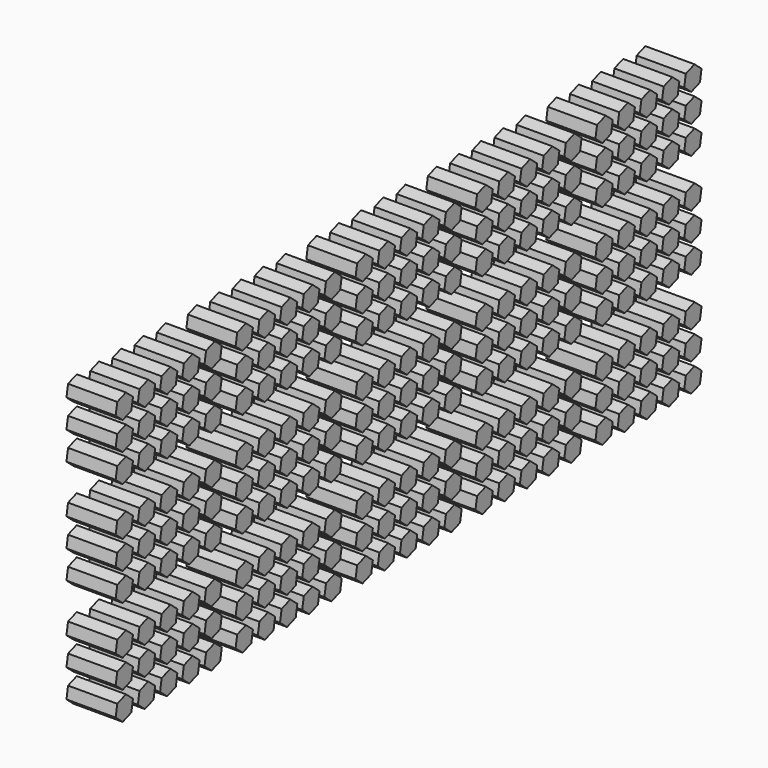
from build123d import *

# Parameters (mm, degrees)
F1_DEPTH = 381


with BuildPart() as f1:
    # F0 (on Right) → F1 (new body)
    with BuildSketch(Plane.YZ):
        Polygon((-15.560611, -87.850091), (68.300105, -57.40093), (83.860716, 30.449161), (15.560611, 87.850091), (-68.300105, 57.40093), (-83.860716, -30.449161), align=None)
        Polygon((-15.560611, 130.589909), (68.300105, 161.03907), (83.860716, 248.889161), (15.560611, 306.290091), (-68.300105, 275.84093), (-83.860716, 187.990839), align=None)
        Polygon((-15.560611, 349.029909), (68.300105, 379.47907), (83.860716, 467.329161), (15.560611, 524.730091), (-68.300105, 494.28093), (-83.860716, 406.430839), align=None)
        Polygon((199.323389, -87.850091), (283.184105, -57.40093), (298.744716, 30.449161), (230.444611, 87.850091), (146.583895, 57.40093), (131.023284, -30.449161), align=None)
        Polygon((199.323389, 130.589909), (283.184105, 161.03907), (298.744716, 248.889161), (230.444611, 306.290091), (146.583895, 275.84093), (131.023284, 187.990839), align=None)
        Polygon((199.323389, 349.029909), (283.184105, 379.47907), (298.744716, 467.329161), (230.444611, 524.730091), (146.583895, 494.28093), (131.023284, 406.430839), align=None)
        Polygon((414.207389, -87.850091), (498.068105, -57.40093), (513.628716, 30.449161), (445.328611, 87.850091), (361.467895, 57.40093), (345.907284, -30.449161), align=None)
        Polygon((414.207389, 130.589909), (498.068105, 161.03907), (513.628716, 248.889161), (445.328611, 306.290091), (361.467895, 275.84093), (345.907284, 187.990839), align=None)
        Polygon((414.207389, 349.029909), (498.068105, 379.47907), (513.628716, 467.329161), (445.328611, 524.730091), (361.467895, 494.28093), (345.907284, 406.430839), align=None)
        Polygon((629.091389, -87.850091), (712.952105, -57.40093), (728.512716, 30.449161), (660.212611, 87.850091), (576.351895, 57.40093), (560.791284, -30.449161), align=None)
        Polygon((629.091389, 130.589909), (712.952105, 161.03907), (728.512716, 248.889161), (660.212611, 306.290091), (576.351895, 275.84093), (560.791284, 187.990839), align=None)
        Polygon((629.091389, 349.029909), (712.952105, 379.47907), (728.512716, 467.329161), (660.212611, 524.730091), (576.351895, 494.28093), (560.791284, 406.430839), align=None)
        Polygon((843.975389, -87.850091), (927.836105, -57.40093), (943.396716, 30.449161), (875.096611, 87.850091), (791.235895, 57.40093), (775.675284, -30.449161), align=None)
        Polygon((843.975389, 130.589909), (927.836105, 161.03907), (943.396716, 248.889161), (875.096611, 306.290091), (791.235895, 275.84093), (775.675284, 187.990839), align=None)
        Polygon((843.975389, 349.029909), (927.836105, 379.47907), (943.396716, 467.329161), (875.096611, 524.730091), (791.235895, 494.28093), (775.675284, 406.430839), align=None)
        Polygon((927.836105, 752.85907), (943.396716, 840.709161), (875.096611, 898.110091), (791.235895, 867.66093), (775.675284, 779.810839), (843.975389, 722.409909), align=None)
        Polygon((298.744716, 840.709161), (230.444611, 898.110091), (146.583895, 867.66093), (131.023284, 779.810839), (199.323389, 722.409909), (283.184105, 752.85907), align=None)
        Polygon((345.907284, 1216.690839), (414.207389, 1159.289909), (498.068105, 1189.73907), (513.628716, 1277.589161), (445.328611, 1334.990091), (361.467895, 1304.54093), align=None)
        Polygon((83.860716, 1277.589161), (15.560611, 1334.990091), (-68.300105, 1304.54093), (-83.860716, 1216.690839), (-15.560611, 1159.289909), (68.300105, 1189.73907), align=None)
        Polygon((660.212611, 898.110091), (576.351895, 867.66093), (560.791284, 779.810839), (629.091389, 722.409909), (712.952105, 752.85907), (728.512716, 840.709161), align=None)
        Polygon((345.907284, 998.250839), (414.207389, 940.849909), (498.068105, 971.29907), (513.628716, 1059.149161), (445.328611, 1116.550091), (361.467895, 1086.10093), align=None)
        Polygon((361.467895, 867.66093), (345.907284, 779.810839), (414.207389, 722.409909), (498.068105, 752.85907), (513.628716, 840.709161), (445.328611, 898.110091), align=None)
        Polygon((131.023284, 998.250839), (199.323389, 940.849909), (283.184105, 971.29907), (298.744716, 1059.149161), (230.444611, 1116.550091), (146.583895, 1086.10093), align=None)
        Polygon((791.235895, 1086.10093), (775.675284, 998.250839), (843.975389, 940.849909), (927.836105, 971.29907), (943.396716, 1059.149161), (875.096611, 1116.550091), align=None)
        Polygon((560.791284, 1216.690839), (629.091389, 1159.289909), (712.952105, 1189.73907), (728.512716, 1277.589161), (660.212611, 1334.990091), (576.351895, 1304.54093), align=None)
        Polygon((875.096611, 1334.990091), (791.235895, 1304.54093), (775.675284, 1216.690839), (843.975389, 1159.289909), (927.836105, 1189.73907), (943.396716, 1277.589161), align=None)
        Polygon((68.300105, 971.29907), (83.860716, 1059.149161), (15.560611, 1116.550091), (-68.300105, 1086.10093), (-83.860716, 998.250839), (-15.560611, 940.849909), align=None)
        Polygon((-83.860716, 779.810839), (-15.560611, 722.409909), (68.300105, 752.85907), (83.860716, 840.709161), (15.560611, 898.110091), (-68.300105, 867.66093), align=None)
        Polygon((230.444611, 1334.990091), (146.583895, 1304.54093), (131.023284, 1216.690839), (199.323389, 1159.289909), (283.184105, 1189.73907), (298.744716, 1277.589161), align=None)
        Polygon((560.791284, 998.250839), (629.091389, 940.849909), (712.952105, 971.29907), (728.512716, 1059.149161), (660.212611, 1116.550091), (576.351895, 1086.10093), align=None)
        Polygon((927.836105, 1563.11907), (943.396716, 1650.969161), (875.096611, 1708.370091), (791.235895, 1677.92093), (775.675284, 1590.070839), (843.975389, 1532.669909), align=None)
        Polygon((298.744716, 1650.969161), (230.444611, 1708.370091), (146.583895, 1677.92093), (131.023284, 1590.070839), (199.323389, 1532.669909), (283.184105, 1563.11907), align=None)
        Polygon((345.907284, 2026.950839), (414.207389, 1969.549909), (498.068105, 1999.99907), (513.628716, 2087.849161), (445.328611, 2145.250091), (361.467895, 2114.80093), align=None)
        Polygon((83.860716, 2087.849161), (15.560611, 2145.250091), (-68.300105, 2114.80093), (-83.860716, 2026.950839), (-15.560611, 1969.549909), (68.300105, 1999.99907), align=None)
        Polygon((660.212611, 1708.370091), (576.351895, 1677.92093), (560.791284, 1590.070839), (629.091389, 1532.669909), (712.952105, 1563.11907), (728.512716, 1650.969161), align=None)
        Polygon((345.907284, 1808.510839), (414.207389, 1751.109909), (498.068105, 1781.55907), (513.628716, 1869.409161), (445.328611, 1926.810091), (361.467895, 1896.36093), align=None)
        Polygon((361.467895, 1677.92093), (345.907284, 1590.070839), (414.207389, 1532.669909), (498.068105, 1563.11907), (513.628716, 1650.969161), (445.328611, 1708.370091), align=None)
        Polygon((131.023284, 1808.510839), (199.323389, 1751.109909), (283.184105, 1781.55907), (298.744716, 1869.409161), (230.444611, 1926.810091), (146.583895, 1896.36093), align=None)
        Polygon((791.235895, 1896.36093), (775.675284, 1808.510839), (843.975389, 1751.109909), (927.836105, 1781.55907), (943.396716, 1869.409161), (875.096611, 1926.810091), align=None)
        Polygon((560.791284, 2026.950839), (629.091389, 1969.549909), (712.952105, 1999.99907), (728.512716, 2087.849161), (660.212611, 2145.250091), (576.351895, 2114.80093), align=None)
        Polygon((875.096611, 2145.250091), (791.235895, 2114.80093), (775.675284, 2026.950839), (843.975389, 1969.549909), (927.836105, 1999.99907), (943.396716, 2087.849161), align=None)
        Polygon((68.300105, 1781.55907), (83.860716, 1869.409161), (15.560611, 1926.810091), (-68.300105, 1896.36093), (-83.860716, 1808.510839), (-15.560611, 1751.109909), align=None)
        Polygon((-83.860716, 1590.070839), (-15.560611, 1532.669909), (68.300105, 1563.11907), (83.860716, 1650.969161), (15.560611, 1708.370091), (-68.300105, 1677.92093), align=None)
        Polygon((230.444611, 2145.250091), (146.583895, 2114.80093), (131.023284, 2026.950839), (199.323389, 1969.549909), (283.184105, 1999.99907), (298.744716, 2087.849161), align=None)
        Polygon((560.791284, 1808.510839), (629.091389, 1751.109909), (712.952105, 1781.55907), (728.512716, 1869.409161), (660.212611, 1926.810091), (576.351895, 1896.36093), align=None)
        Polygon((2088.616105, -57.40093), (2104.176716, 30.449161), (2035.876611, 87.850091), (1952.015895, 57.40093), (1936.455284, -30.449161), (2004.755389, -87.850091), align=None)
        Polygon((1459.524716, 30.449161), (1391.224611, 87.850091), (1307.363895, 57.40093), (1291.803284, -30.449161), (1360.103389, -87.850091), (1443.964105, -57.40093), align=None)
        Polygon((1506.687284, 406.430839), (1574.987389, 349.029909), (1658.848105, 379.47907), (1674.408716, 467.329161), (1606.108611, 524.730091), (1522.247895, 494.28093), align=None)
        Polygon((1244.640716, 467.329161), (1176.340611, 524.730091), (1092.479895, 494.28093), (1076.919284, 406.430839), (1145.219389, 349.029909), (1229.080105, 379.47907), align=None)
        Polygon((1820.992611, 87.850091), (1737.131895, 57.40093), (1721.571284, -30.449161), (1789.871389, -87.850091), (1873.732105, -57.40093), (1889.292716, 30.449161), align=None)
        Polygon((1506.687284, 187.990839), (1574.987389, 130.589909), (1658.848105, 161.03907), (1674.408716, 248.889161), (1606.108611, 306.290091), (1522.247895, 275.84093), align=None)
        Polygon((1522.247895, 57.40093), (1506.687284, -30.449161), (1574.987389, -87.850091), (1658.848105, -57.40093), (1674.408716, 30.449161), (1606.108611, 87.850091), align=None)
        Polygon((1291.803284, 187.990839), (1360.103389, 130.589909), (1443.964105, 161.03907), (1459.524716, 248.889161), (1391.224611, 306.290091), (1307.363895, 275.84093), align=None)
        Polygon((1952.015895, 275.84093), (1936.455284, 187.990839), (2004.755389, 130.589909), (2088.616105, 161.03907), (2104.176716, 248.889161), (2035.876611, 306.290091), align=None)
        Polygon((1721.571284, 406.430839), (1789.871389, 349.029909), (1873.732105, 379.47907), (1889.292716, 467.329161), (1820.992611, 524.730091), (1737.131895, 494.28093), align=None)
        Polygon((2035.876611, 524.730091), (1952.015895, 494.28093), (1936.455284, 406.430839), (2004.755389, 349.029909), (2088.616105, 379.47907), (2104.176716, 467.329161), align=None)
        Polygon((1229.080105, 161.03907), (1244.640716, 248.889161), (1176.340611, 306.290091), (1092.479895, 275.84093), (1076.919284, 187.990839), (1145.219389, 130.589909), align=None)
        Polygon((1076.919284, -30.449161), (1145.219389, -87.850091), (1229.080105, -57.40093), (1244.640716, 30.449161), (1176.340611, 87.850091), (1092.479895, 57.40093), align=None)
        Polygon((1391.224611, 524.730091), (1307.363895, 494.28093), (1291.803284, 406.430839), (1360.103389, 349.029909), (1443.964105, 379.47907), (1459.524716, 467.329161), align=None)
        Polygon((1721.571284, 187.990839), (1789.871389, 130.589909), (1873.732105, 161.03907), (1889.292716, 248.889161), (1820.992611, 306.290091), (1737.131895, 275.84093), align=None)
        Polygon((2088.616105, 752.85907), (2104.176716, 840.709161), (2035.876611, 898.110091), (1952.015895, 867.66093), (1936.455284, 779.810839), (2004.755389, 722.409909), align=None)
        Polygon((1459.524716, 840.709161), (1391.224611, 898.110091), (1307.363895, 867.66093), (1291.803284, 779.810839), (1360.103389, 722.409909), (1443.964105, 752.85907), align=None)
        Polygon((1506.687284, 1216.690839), (1574.987389, 1159.289909), (1658.848105, 1189.73907), (1674.408716, 1277.589161), (1606.108611, 1334.990091), (1522.247895, 1304.54093), align=None)
        Polygon((1244.640716, 1277.589161), (1176.340611, 1334.990091), (1092.479895, 1304.54093), (1076.919284, 1216.690839), (1145.219389, 1159.289909), (1229.080105, 1189.73907), align=None)
        Polygon((1820.992611, 898.110091), (1737.131895, 867.66093), (1721.571284, 779.810839), (1789.871389, 722.409909), (1873.732105, 752.85907), (1889.292716, 840.709161), align=None)
        Polygon((1506.687284, 998.250839), (1574.987389, 940.849909), (1658.848105, 971.29907), (1674.408716, 1059.149161), (1606.108611, 1116.550091), (1522.247895, 1086.10093), align=None)
        Polygon((1522.247895, 867.66093), (1506.687284, 779.810839), (1574.987389, 722.409909), (1658.848105, 752.85907), (1674.408716, 840.709161), (1606.108611, 898.110091), align=None)
        Polygon((1291.803284, 998.250839), (1360.103389, 940.849909), (1443.964105, 971.29907), (1459.524716, 1059.149161), (1391.224611, 1116.550091), (1307.363895, 1086.10093), align=None)
        Polygon((1952.015895, 1086.10093), (1936.455284, 998.250839), (2004.755389, 940.849909), (2088.616105, 971.29907), (2104.176716, 1059.149161), (2035.876611, 1116.550091), align=None)
        Polygon((1721.571284, 1216.690839), (1789.871389, 1159.289909), (1873.732105, 1189.73907), (1889.292716, 1277.589161), (1820.992611, 1334.990091), (1737.131895, 1304.54093), align=None)
        Polygon((2035.876611, 1334.990091), (1952.015895, 1304.54093), (1936.455284, 1216.690839), (2004.755389, 1159.289909), (2088.616105, 1189.73907), (2104.176716, 1277.589161), align=None)
        Polygon((1229.080105, 971.29907), (1244.640716, 1059.149161), (1176.340611, 1116.550091), (1092.479895, 1086.10093), (1076.919284, 998.250839), (1145.219389, 940.849909), align=None)
        Polygon((1076.919284, 779.810839), (1145.219389, 722.409909), (1229.080105, 752.85907), (1244.640716, 840.709161), (1176.340611, 898.110091), (1092.479895, 867.66093), align=None)
        Polygon((1391.224611, 1334.990091), (1307.363895, 1304.54093), (1291.803284, 1216.690839), (1360.103389, 1159.289909), (1443.964105, 1189.73907), (1459.524716, 1277.589161), align=None)
        Polygon((1721.571284, 998.250839), (1789.871389, 940.849909), (1873.732105, 971.29907), (1889.292716, 1059.149161), (1820.992611, 1116.550091), (1737.131895, 1086.10093), align=None)
        Polygon((2088.616105, 1563.11907), (2104.176716, 1650.969161), (2035.876611, 1708.370091), (1952.015895, 1677.92093), (1936.455284, 1590.070839), (2004.755389, 1532.669909), align=None)
        Polygon((1459.524716, 1650.969161), (1391.224611, 1708.370091), (1307.363895, 1677.92093), (1291.803284, 1590.070839), (1360.103389, 1532.669909), (1443.964105, 1563.11907), align=None)
        Polygon((1506.687284, 2026.950839), (1574.987389, 1969.549909), (1658.848105, 1999.99907), (1674.408716, 2087.849161), (1606.108611, 2145.250091), (1522.247895, 2114.80093), align=None)
        Polygon((1244.640716, 2087.849161), (1176.340611, 2145.250091), (1092.479895, 2114.80093), (1076.919284, 2026.950839), (1145.219389, 1969.549909), (1229.080105, 1999.99907), align=None)
        Polygon((1820.992611, 1708.370091), (1737.131895, 1677.92093), (1721.571284, 1590.070839), (1789.871389, 1532.669909), (1873.732105, 1563.11907), (1889.292716, 1650.969161), align=None)
        Polygon((1506.687284, 1808.510839), (1574.987389, 1751.109909), (1658.848105, 1781.55907), (1674.408716, 1869.409161), (1606.108611, 1926.810091), (1522.247895, 1896.36093), align=None)
        Polygon((1522.247895, 1677.92093), (1506.687284, 1590.070839), (1574.987389, 1532.669909), (1658.848105, 1563.11907), (1674.408716, 1650.969161), (1606.108611, 1708.370091), align=None)
        Polygon((1291.803284, 1808.510839), (1360.103389, 1751.109909), (1443.964105, 1781.55907), (1459.524716, 1869.409161), (1391.224611, 1926.810091), (1307.363895, 1896.36093), align=None)
        Polygon((1952.015895, 1896.36093), (1936.455284, 1808.510839), (2004.755389, 1751.109909), (2088.616105, 1781.55907), (2104.176716, 1869.409161), (2035.876611, 1926.810091), align=None)
        Polygon((1721.571284, 2026.950839), (1789.871389, 1969.549909), (1873.732105, 1999.99907), (1889.292716, 2087.849161), (1820.992611, 2145.250091), (1737.131895, 2114.80093), align=None)
        Polygon((2035.876611, 2145.250091), (1952.015895, 2114.80093), (1936.455284, 2026.950839), (2004.755389, 1969.549909), (2088.616105, 1999.99907), (2104.176716, 2087.849161), align=None)
        Polygon((1229.080105, 1781.55907), (1244.640716, 1869.409161), (1176.340611, 1926.810091), (1092.479895, 1896.36093), (1076.919284, 1808.510839), (1145.219389, 1751.109909), align=None)
        Polygon((1076.919284, 1590.070839), (1145.219389, 1532.669909), (1229.080105, 1563.11907), (1244.640716, 1650.969161), (1176.340611, 1708.370091), (1092.479895, 1677.92093), align=None)
        Polygon((1391.224611, 2145.250091), (1307.363895, 2114.80093), (1291.803284, 2026.950839), (1360.103389, 1969.549909), (1443.964105, 1999.99907), (1459.524716, 2087.849161), align=None)
        Polygon((1721.571284, 1808.510839), (1789.871389, 1751.109909), (1873.732105, 1781.55907), (1889.292716, 1869.409161), (1820.992611, 1926.810091), (1737.131895, 1896.36093), align=None)
        Polygon((3249.396105, -57.40093), (3264.956716, 30.449161), (3196.656611, 87.850091), (3112.795895, 57.40093), (3097.235284, -30.449161), (3165.535389, -87.850091), align=None)
        Polygon((2620.304716, 30.449161), (2552.004611, 87.850091), (2468.143895, 57.40093), (2452.583284, -30.449161), (2520.883389, -87.850091), (2604.744105, -57.40093), align=None)
        Polygon((2667.467284, 406.430839), (2735.767389, 349.029909), (2819.628105, 379.47907), (2835.188716, 467.329161), (2766.888611, 524.730091), (2683.027895, 494.28093), align=None)
        Polygon((2405.420716, 467.329161), (2337.120611, 524.730091), (2253.259895, 494.28093), (2237.699284, 406.430839), (2305.999389, 349.029909), (2389.860105, 379.47907), align=None)
        Polygon((2981.772611, 87.850091), (2897.911895, 57.40093), (2882.351284, -30.449161), (2950.651389, -87.850091), (3034.512105, -57.40093), (3050.072716, 30.449161), align=None)
        Polygon((2667.467284, 187.990839), (2735.767389, 130.589909), (2819.628105, 161.03907), (2835.188716, 248.889161), (2766.888611, 306.290091), (2683.027895, 275.84093), align=None)
        Polygon((2683.027895, 57.40093), (2667.467284, -30.449161), (2735.767389, -87.850091), (2819.628105, -57.40093), (2835.188716, 30.449161), (2766.888611, 87.850091), align=None)
        Polygon((2452.583284, 187.990839), (2520.883389, 130.589909), (2604.744105, 161.03907), (2620.304716, 248.889161), (2552.004611, 306.290091), (2468.143895, 275.84093), align=None)
        Polygon((3112.795895, 275.84093), (3097.235284, 187.990839), (3165.535389, 130.589909), (3249.396105, 161.03907), (3264.956716, 248.889161), (3196.656611, 306.290091), align=None)
        Polygon((2882.351284, 406.430839), (2950.651389, 349.029909), (3034.512105, 379.47907), (3050.072716, 467.329161), (2981.772611, 524.730091), (2897.911895, 494.28093), align=None)
        Polygon((3196.656611, 524.730091), (3112.795895, 494.28093), (3097.235284, 406.430839), (3165.535389, 349.029909), (3249.396105, 379.47907), (3264.956716, 467.329161), align=None)
        Polygon((2389.860105, 161.03907), (2405.420716, 248.889161), (2337.120611, 306.290091), (2253.259895, 275.84093), (2237.699284, 187.990839), (2305.999389, 130.589909), align=None)
        Polygon((2237.699284, -30.449161), (2305.999389, -87.850091), (2389.860105, -57.40093), (2405.420716, 30.449161), (2337.120611, 87.850091), (2253.259895, 57.40093), align=None)
        Polygon((2552.004611, 524.730091), (2468.143895, 494.28093), (2452.583284, 406.430839), (2520.883389, 349.029909), (2604.744105, 379.47907), (2620.304716, 467.329161), align=None)
        Polygon((2882.351284, 187.990839), (2950.651389, 130.589909), (3034.512105, 161.03907), (3050.072716, 248.889161), (2981.772611, 306.290091), (2897.911895, 275.84093), align=None)
        Polygon((3249.396105, 752.85907), (3264.956716, 840.709161), (3196.656611, 898.110091), (3112.795895, 867.66093), (3097.235284, 779.810839), (3165.535389, 722.409909), align=None)
        Polygon((2620.304716, 840.709161), (2552.004611, 898.110091), (2468.143895, 867.66093), (2452.583284, 779.810839), (2520.883389, 722.409909), (2604.744105, 752.85907), align=None)
        Polygon((2667.467284, 1216.690839), (2735.767389, 1159.289909), (2819.628105, 1189.73907), (2835.188716, 1277.589161), (2766.888611, 1334.990091), (2683.027895, 1304.54093), align=None)
        Polygon((2405.420716, 1277.589161), (2337.120611, 1334.990091), (2253.259895, 1304.54093), (2237.699284, 1216.690839), (2305.999389, 1159.289909), (2389.860105, 1189.73907), align=None)
        Polygon((2981.772611, 898.110091), (2897.911895, 867.66093), (2882.351284, 779.810839), (2950.651389, 722.409909), (3034.512105, 752.85907), (3050.072716, 840.709161), align=None)
        Polygon((2667.467284, 998.250839), (2735.767389, 940.849909), (2819.628105, 971.29907), (2835.188716, 1059.149161), (2766.888611, 1116.550091), (2683.027895, 1086.10093), align=None)
        Polygon((2683.027895, 867.66093), (2667.467284, 779.810839), (2735.767389, 722.409909), (2819.628105, 752.85907), (2835.188716, 840.709161), (2766.888611, 898.110091), align=None)
        Polygon((2452.583284, 998.250839), (2520.883389, 940.849909), (2604.744105, 971.29907), (2620.304716, 1059.149161), (2552.004611, 1116.550091), (2468.143895, 1086.10093), align=None)
        Polygon((3112.795895, 1086.10093), (3097.235284, 998.250839), (3165.535389, 940.849909), (3249.396105, 971.29907), (3264.956716, 1059.149161), (3196.656611, 1116.550091), align=None)
        Polygon((2882.351284, 1216.690839), (2950.651389, 1159.289909), (3034.512105, 1189.73907), (3050.072716, 1277.589161), (2981.772611, 1334.990091), (2897.911895, 1304.54093), align=None)
        Polygon((3196.656611, 1334.990091), (3112.795895, 1304.54093), (3097.235284, 1216.690839), (3165.535389, 1159.289909), (3249.396105, 1189.73907), (3264.956716, 1277.589161), align=None)
        Polygon((2389.860105, 971.29907), (2405.420716, 1059.149161), (2337.120611, 1116.550091), (2253.259895, 1086.10093), (2237.699284, 998.250839), (2305.999389, 940.849909), align=None)
        Polygon((2237.699284, 779.810839), (2305.999389, 722.409909), (2389.860105, 752.85907), (2405.420716, 840.709161), (2337.120611, 898.110091), (2253.259895, 867.66093), align=None)
        Polygon((2552.004611, 1334.990091), (2468.143895, 1304.54093), (2452.583284, 1216.690839), (2520.883389, 1159.289909), (2604.744105, 1189.73907), (2620.304716, 1277.589161), align=None)
        Polygon((2882.351284, 998.250839), (2950.651389, 940.849909), (3034.512105, 971.29907), (3050.072716, 1059.149161), (2981.772611, 1116.550091), (2897.911895, 1086.10093), align=None)
        Polygon((3249.396105, 1563.11907), (3264.956716, 1650.969161), (3196.656611, 1708.370091), (3112.795895, 1677.92093), (3097.235284, 1590.070839), (3165.535389, 1532.669909), align=None)
        Polygon((2620.304716, 1650.969161), (2552.004611, 1708.370091), (2468.143895, 1677.92093), (2452.583284, 1590.070839), (2520.883389, 1532.669909), (2604.744105, 1563.11907), align=None)
        Polygon((2667.467284, 2026.950839), (2735.767389, 1969.549909), (2819.628105, 1999.99907), (2835.188716, 2087.849161), (2766.888611, 2145.250091), (2683.027895, 2114.80093), align=None)
        Polygon((2405.420716, 2087.849161), (2337.120611, 2145.250091), (2253.259895, 2114.80093), (2237.699284, 2026.950839), (2305.999389, 1969.549909), (2389.860105, 1999.99907), align=None)
        Polygon((2981.772611, 1708.370091), (2897.911895, 1677.92093), (2882.351284, 1590.070839), (2950.651389, 1532.669909), (3034.512105, 1563.11907), (3050.072716, 1650.969161), align=None)
        Polygon((2667.467284, 1808.510839), (2735.767389, 1751.109909), (2819.628105, 1781.55907), (2835.188716, 1869.409161), (2766.888611, 1926.810091), (2683.027895, 1896.36093), align=None)
        Polygon((2683.027895, 1677.92093), (2667.467284, 1590.070839), (2735.767389, 1532.669909), (2819.628105, 1563.11907), (2835.188716, 1650.969161), (2766.888611, 1708.370091), align=None)
        Polygon((2452.583284, 1808.510839), (2520.883389, 1751.109909), (2604.744105, 1781.55907), (2620.304716, 1869.409161), (2552.004611, 1926.810091), (2468.143895, 1896.36093), align=None)
        Polygon((3112.795895, 1896.36093), (3097.235284, 1808.510839), (3165.535389, 1751.109909), (3249.396105, 1781.55907), (3264.956716, 1869.409161), (3196.656611, 1926.810091), align=None)
        Polygon((2882.351284, 2026.950839), (2950.651389, 1969.549909), (3034.512105, 1999.99907), (3050.072716, 2087.849161), (2981.772611, 2145.250091), (2897.911895, 2114.80093), align=None)
        Polygon((3196.656611, 2145.250091), (3112.795895, 2114.80093), (3097.235284, 2026.950839), (3165.535389, 1969.549909), (3249.396105, 1999.99907), (3264.956716, 2087.849161), align=None)
        Polygon((2389.860105, 1781.55907), (2405.420716, 1869.409161), (2337.120611, 1926.810091), (2253.259895, 1896.36093), (2237.699284, 1808.510839), (2305.999389, 1751.109909), align=None)
        Polygon((2237.699284, 1590.070839), (2305.999389, 1532.669909), (2389.860105, 1563.11907), (2405.420716, 1650.969161), (2337.120611, 1708.370091), (2253.259895, 1677.92093), align=None)
        Polygon((2552.004611, 2145.250091), (2468.143895, 2114.80093), (2452.583284, 2026.950839), (2520.883389, 1969.549909), (2604.744105, 1999.99907), (2620.304716, 2087.849161), align=None)
        Polygon((2882.351284, 1808.510839), (2950.651389, 1751.109909), (3034.512105, 1781.55907), (3050.072716, 1869.409161), (2981.772611, 1926.810091), (2897.911895, 1896.36093), align=None)
        Polygon((4410.176105, -57.40093), (4425.736716, 30.449161), (4357.436611, 87.850091), (4273.575895, 57.40093), (4258.015284, -30.449161), (4326.315389, -87.850091), align=None)
        Polygon((3781.084716, 30.449161), (3712.784611, 87.850091), (3628.923895, 57.40093), (3613.363284, -30.449161), (3681.663389, -87.850091), (3765.524105, -57.40093), align=None)
        Polygon((3828.247284, 406.430839), (3896.547389, 349.029909), (3980.408105, 379.47907), (3995.968716, 467.329161), (3927.668611, 524.730091), (3843.807895, 494.28093), align=None)
        Polygon((3566.200716, 467.329161), (3497.900611, 524.730091), (3414.039895, 494.28093), (3398.479284, 406.430839), (3466.779389, 349.029909), (3550.640105, 379.47907), align=None)
        Polygon((4142.552611, 87.850091), (4058.691895, 57.40093), (4043.131284, -30.449161), (4111.431389, -87.850091), (4195.292105, -57.40093), (4210.852716, 30.449161), align=None)
        Polygon((3828.247284, 187.990839), (3896.547389, 130.589909), (3980.408105, 161.03907), (3995.968716, 248.889161), (3927.668611, 306.290091), (3843.807895, 275.84093), align=None)
        Polygon((3843.807895, 57.40093), (3828.247284, -30.449161), (3896.547389, -87.850091), (3980.408105, -57.40093), (3995.968716, 30.449161), (3927.668611, 87.850091), align=None)
        Polygon((3613.363284, 187.990839), (3681.663389, 130.589909), (3765.524105, 161.03907), (3781.084716, 248.889161), (3712.784611, 306.290091), (3628.923895, 275.84093), align=None)
        Polygon((4273.575895, 275.84093), (4258.015284, 187.990839), (4326.315389, 130.589909), (4410.176105, 161.03907), (4425.736716, 248.889161), (4357.436611, 306.290091), align=None)
        Polygon((4043.131284, 406.430839), (4111.431389, 349.029909), (4195.292105, 379.47907), (4210.852716, 467.329161), (4142.552611, 524.730091), (4058.691895, 494.28093), align=None)
        Polygon((4357.436611, 524.730091), (4273.575895, 494.28093), (4258.015284, 406.430839), (4326.315389, 349.029909), (4410.176105, 379.47907), (4425.736716, 467.329161), align=None)
        Polygon((3550.640105, 161.03907), (3566.200716, 248.889161), (3497.900611, 306.290091), (3414.039895, 275.84093), (3398.479284, 187.990839), (3466.779389, 130.589909), align=None)
        Polygon((3398.479284, -30.449161), (3466.779389, -87.850091), (3550.640105, -57.40093), (3566.200716, 30.449161), (3497.900611, 87.850091), (3414.039895, 57.40093), align=None)
        Polygon((3712.784611, 524.730091), (3628.923895, 494.28093), (3613.363284, 406.430839), (3681.663389, 349.029909), (3765.524105, 379.47907), (3781.084716, 467.329161), align=None)
        Polygon((4043.131284, 187.990839), (4111.431389, 130.589909), (4195.292105, 161.03907), (4210.852716, 248.889161), (4142.552611, 306.290091), (4058.691895, 275.84093), align=None)
        Polygon((4410.176105, 752.85907), (4425.736716, 840.709161), (4357.436611, 898.110091), (4273.575895, 867.66093), (4258.015284, 779.810839), (4326.315389, 722.409909), align=None)
        Polygon((3781.084716, 840.709161), (3712.784611, 898.110091), (3628.923895, 867.66093), (3613.363284, 779.810839), (3681.663389, 722.409909), (3765.524105, 752.85907), align=None)
        Polygon((3828.247284, 1216.690839), (3896.547389, 1159.289909), (3980.408105, 1189.73907), (3995.968716, 1277.589161), (3927.668611, 1334.990091), (3843.807895, 1304.54093), align=None)
        Polygon((3566.200716, 1277.589161), (3497.900611, 1334.990091), (3414.039895, 1304.54093), (3398.479284, 1216.690839), (3466.779389, 1159.289909), (3550.640105, 1189.73907), align=None)
        Polygon((4142.552611, 898.110091), (4058.691895, 867.66093), (4043.131284, 779.810839), (4111.431389, 722.409909), (4195.292105, 752.85907), (4210.852716, 840.709161), align=None)
        Polygon((3828.247284, 998.250839), (3896.547389, 940.849909), (3980.408105, 971.29907), (3995.968716, 1059.149161), (3927.668611, 1116.550091), (3843.807895, 1086.10093), align=None)
        Polygon((3843.807895, 867.66093), (3828.247284, 779.810839), (3896.547389, 722.409909), (3980.408105, 752.85907), (3995.968716, 840.709161), (3927.668611, 898.110091), align=None)
        Polygon((3613.363284, 998.250839), (3681.663389, 940.849909), (3765.524105, 971.29907), (3781.084716, 1059.149161), (3712.784611, 1116.550091), (3628.923895, 1086.10093), align=None)
        Polygon((4273.575895, 1086.10093), (4258.015284, 998.250839), (4326.315389, 940.849909), (4410.176105, 971.29907), (4425.736716, 1059.149161), (4357.436611, 1116.550091), align=None)
        Polygon((4043.131284, 1216.690839), (4111.431389, 1159.289909), (4195.292105, 1189.73907), (4210.852716, 1277.589161), (4142.552611, 1334.990091), (4058.691895, 1304.54093), align=None)
        Polygon((4357.436611, 1334.990091), (4273.575895, 1304.54093), (4258.015284, 1216.690839), (4326.315389, 1159.289909), (4410.176105, 1189.73907), (4425.736716, 1277.589161), align=None)
        Polygon((3550.640105, 971.29907), (3566.200716, 1059.149161), (3497.900611, 1116.550091), (3414.039895, 1086.10093), (3398.479284, 998.250839), (3466.779389, 940.849909), align=None)
        Polygon((3398.479284, 779.810839), (3466.779389, 722.409909), (3550.640105, 752.85907), (3566.200716, 840.709161), (3497.900611, 898.110091), (3414.039895, 867.66093), align=None)
        Polygon((3712.784611, 1334.990091), (3628.923895, 1304.54093), (3613.363284, 1216.690839), (3681.663389, 1159.289909), (3765.524105, 1189.73907), (3781.084716, 1277.589161), align=None)
        Polygon((4043.131284, 998.250839), (4111.431389, 940.849909), (4195.292105, 971.29907), (4210.852716, 1059.149161), (4142.552611, 1116.550091), (4058.691895, 1086.10093), align=None)
        Polygon((4410.176105, 1563.11907), (4425.736716, 1650.969161), (4357.436611, 1708.370091), (4273.575895, 1677.92093), (4258.015284, 1590.070839), (4326.315389, 1532.669909), align=None)
        Polygon((3781.084716, 1650.969161), (3712.784611, 1708.370091), (3628.923895, 1677.92093), (3613.363284, 1590.070839), (3681.663389, 1532.669909), (3765.524105, 1563.11907), align=None)
        Polygon((3828.247284, 2026.950839), (3896.547389, 1969.549909), (3980.408105, 1999.99907), (3995.968716, 2087.849161), (3927.668611, 2145.250091), (3843.807895, 2114.80093), align=None)
        Polygon((3566.200716, 2087.849161), (3497.900611, 2145.250091), (3414.039895, 2114.80093), (3398.479284, 2026.950839), (3466.779389, 1969.549909), (3550.640105, 1999.99907), align=None)
        Polygon((4142.552611, 1708.370091), (4058.691895, 1677.92093), (4043.131284, 1590.070839), (4111.431389, 1532.669909), (4195.292105, 1563.11907), (4210.852716, 1650.969161), align=None)
        Polygon((3828.247284, 1808.510839), (3896.547389, 1751.109909), (3980.408105, 1781.55907), (3995.968716, 1869.409161), (3927.668611, 1926.810091), (3843.807895, 1896.36093), align=None)
        Polygon((3843.807895, 1677.92093), (3828.247284, 1590.070839), (3896.547389, 1532.669909), (3980.408105, 1563.11907), (3995.968716, 1650.969161), (3927.668611, 1708.370091), align=None)
        Polygon((3613.363284, 1808.510839), (3681.663389, 1751.109909), (3765.524105, 1781.55907), (3781.084716, 1869.409161), (3712.784611, 1926.810091), (3628.923895, 1896.36093), align=None)
        Polygon((4273.575895, 1896.36093), (4258.015284, 1808.510839), (4326.315389, 1751.109909), (4410.176105, 1781.55907), (4425.736716, 1869.409161), (4357.436611, 1926.810091), align=None)
        Polygon((4043.131284, 2026.950839), (4111.431389, 1969.549909), (4195.292105, 1999.99907), (4210.852716, 2087.849161), (4142.552611, 2145.250091), (4058.691895, 2114.80093), align=None)
        Polygon((4357.436611, 2145.250091), (4273.575895, 2114.80093), (4258.015284, 2026.950839), (4326.315389, 1969.549909), (4410.176105, 1999.99907), (4425.736716, 2087.849161), align=None)
        Polygon((3550.640105, 1781.55907), (3566.200716, 1869.409161), (3497.900611, 1926.810091), (3414.039895, 1896.36093), (3398.479284, 1808.510839), (3466.779389, 1751.109909), align=None)
        Polygon((3398.479284, 1590.070839), (3466.779389, 1532.669909), (3550.640105, 1563.11907), (3566.200716, 1650.969161), (3497.900611, 1708.370091), (3414.039895, 1677.92093), align=None)
        Polygon((3712.784611, 2145.250091), (3628.923895, 2114.80093), (3613.363284, 2026.950839), (3681.663389, 1969.549909), (3765.524105, 1999.99907), (3781.084716, 2087.849161), align=None)
        Polygon((4043.131284, 1808.510839), (4111.431389, 1751.109909), (4195.292105, 1781.55907), (4210.852716, 1869.409161), (4142.552611, 1926.810091), (4058.691895, 1896.36093), align=None)
        Polygon((5570.956105, -57.40093), (5586.516716, 30.449161), (5518.216611, 87.850091), (5434.355895, 57.40093), (5418.795284, -30.449161), (5487.095389, -87.850091), align=None)
        Polygon((4941.864716, 30.449161), (4873.564611, 87.850091), (4789.703895, 57.40093), (4774.143284, -30.449161), (4842.443389, -87.850091), (4926.304105, -57.40093), align=None)
        Polygon((4989.027284, 406.430839), (5057.327389, 349.029909), (5141.188105, 379.47907), (5156.748716, 467.329161), (5088.448611, 524.730091), (5004.587895, 494.28093), align=None)
        Polygon((4726.980716, 467.329161), (4658.680611, 524.730091), (4574.819895, 494.28093), (4559.259284, 406.430839), (4627.559389, 349.029909), (4711.420105, 379.47907), align=None)
        Polygon((5303.332611, 87.850091), (5219.471895, 57.40093), (5203.911284, -30.449161), (5272.211389, -87.850091), (5356.072105, -57.40093), (5371.632716, 30.449161), align=None)
        Polygon((4989.027284, 187.990839), (5057.327389, 130.589909), (5141.188105, 161.03907), (5156.748716, 248.889161), (5088.448611, 306.290091), (5004.587895, 275.84093), align=None)
        Polygon((5004.587895, 57.40093), (4989.027284, -30.449161), (5057.327389, -87.850091), (5141.188105, -57.40093), (5156.748716, 30.449161), (5088.448611, 87.850091), align=None)
        Polygon((4774.143284, 187.990839), (4842.443389, 130.589909), (4926.304105, 161.03907), (4941.864716, 248.889161), (4873.564611, 306.290091), (4789.703895, 275.84093), align=None)
        Polygon((5434.355895, 275.84093), (5418.795284, 187.990839), (5487.095389, 130.589909), (5570.956105, 161.03907), (5586.516716, 248.889161), (5518.216611, 306.290091), align=None)
        Polygon((5203.911284, 406.430839), (5272.211389, 349.029909), (5356.072105, 379.47907), (5371.632716, 467.329161), (5303.332611, 524.730091), (5219.471895, 494.28093), align=None)
        Polygon((5518.216611, 524.730091), (5434.355895, 494.28093), (5418.795284, 406.430839), (5487.095389, 349.029909), (5570.956105, 379.47907), (5586.516716, 467.329161), align=None)
        Polygon((4711.420105, 161.03907), (4726.980716, 248.889161), (4658.680611, 306.290091), (4574.819895, 275.84093), (4559.259284, 187.990839), (4627.559389, 130.589909), align=None)
        Polygon((4559.259284, -30.449161), (4627.559389, -87.850091), (4711.420105, -57.40093), (4726.980716, 30.449161), (4658.680611, 87.850091), (4574.819895, 57.40093), align=None)
        Polygon((4873.564611, 524.730091), (4789.703895, 494.28093), (4774.143284, 406.430839), (4842.443389, 349.029909), (4926.304105, 379.47907), (4941.864716, 467.329161), align=None)
        Polygon((5203.911284, 187.990839), (5272.211389, 130.589909), (5356.072105, 161.03907), (5371.632716, 248.889161), (5303.332611, 306.290091), (5219.471895, 275.84093), align=None)
        Polygon((5570.956105, 752.85907), (5586.516716, 840.709161), (5518.216611, 898.110091), (5434.355895, 867.66093), (5418.795284, 779.810839), (5487.095389, 722.409909), align=None)
        Polygon((4941.864716, 840.709161), (4873.564611, 898.110091), (4789.703895, 867.66093), (4774.143284, 779.810839), (4842.443389, 722.409909), (4926.304105, 752.85907), align=None)
        Polygon((4989.027284, 1216.690839), (5057.327389, 1159.289909), (5141.188105, 1189.73907), (5156.748716, 1277.589161), (5088.448611, 1334.990091), (5004.587895, 1304.54093), align=None)
        Polygon((4726.980716, 1277.589161), (4658.680611, 1334.990091), (4574.819895, 1304.54093), (4559.259284, 1216.690839), (4627.559389, 1159.289909), (4711.420105, 1189.73907), align=None)
        Polygon((5303.332611, 898.110091), (5219.471895, 867.66093), (5203.911284, 779.810839), (5272.211389, 722.409909), (5356.072105, 752.85907), (5371.632716, 840.709161), align=None)
        Polygon((4989.027284, 998.250839), (5057.327389, 940.849909), (5141.188105, 971.29907), (5156.748716, 1059.149161), (5088.448611, 1116.550091), (5004.587895, 1086.10093), align=None)
        Polygon((5004.587895, 867.66093), (4989.027284, 779.810839), (5057.327389, 722.409909), (5141.188105, 752.85907), (5156.748716, 840.709161), (5088.448611, 898.110091), align=None)
        Polygon((4774.143284, 998.250839), (4842.443389, 940.849909), (4926.304105, 971.29907), (4941.864716, 1059.149161), (4873.564611, 1116.550091), (4789.703895, 1086.10093), align=None)
        Polygon((5434.355895, 1086.10093), (5418.795284, 998.250839), (5487.095389, 940.849909), (5570.956105, 971.29907), (5586.516716, 1059.149161), (5518.216611, 1116.550091), align=None)
        Polygon((5203.911284, 1216.690839), (5272.211389, 1159.289909), (5356.072105, 1189.73907), (5371.632716, 1277.589161), (5303.332611, 1334.990091), (5219.471895, 1304.54093), align=None)
        Polygon((5518.216611, 1334.990091), (5434.355895, 1304.54093), (5418.795284, 1216.690839), (5487.095389, 1159.289909), (5570.956105, 1189.73907), (5586.516716, 1277.589161), align=None)
        Polygon((4711.420105, 971.29907), (4726.980716, 1059.149161), (4658.680611, 1116.550091), (4574.819895, 1086.10093), (4559.259284, 998.250839), (4627.559389, 940.849909), align=None)
        Polygon((4559.259284, 779.810839), (4627.559389, 722.409909), (4711.420105, 752.85907), (4726.980716, 840.709161), (4658.680611, 898.110091), (4574.819895, 867.66093), align=None)
        Polygon((4873.564611, 1334.990091), (4789.703895, 1304.54093), (4774.143284, 1216.690839), (4842.443389, 1159.289909), (4926.304105, 1189.73907), (4941.864716, 1277.589161), align=None)
        Polygon((5203.911284, 998.250839), (5272.211389, 940.849909), (5356.072105, 971.29907), (5371.632716, 1059.149161), (5303.332611, 1116.550091), (5219.471895, 1086.10093), align=None)
        Polygon((5570.956105, 1563.11907), (5586.516716, 1650.969161), (5518.216611, 1708.370091), (5434.355895, 1677.92093), (5418.795284, 1590.070839), (5487.095389, 1532.669909), align=None)
        Polygon((4941.864716, 1650.969161), (4873.564611, 1708.370091), (4789.703895, 1677.92093), (4774.143284, 1590.070839), (4842.443389, 1532.669909), (4926.304105, 1563.11907), align=None)
        Polygon((4989.027284, 2026.950839), (5057.327389, 1969.549909), (5141.188105, 1999.99907), (5156.748716, 2087.849161), (5088.448611, 2145.250091), (5004.587895, 2114.80093), align=None)
        Polygon((4726.980716, 2087.849161), (4658.680611, 2145.250091), (4574.819895, 2114.80093), (4559.259284, 2026.950839), (4627.559389, 1969.549909), (4711.420105, 1999.99907), align=None)
        Polygon((5303.332611, 1708.370091), (5219.471895, 1677.92093), (5203.911284, 1590.070839), (5272.211389, 1532.669909), (5356.072105, 1563.11907), (5371.632716, 1650.969161), align=None)
        Polygon((4989.027284, 1808.510839), (5057.327389, 1751.109909), (5141.188105, 1781.55907), (5156.748716, 1869.409161), (5088.448611, 1926.810091), (5004.587895, 1896.36093), align=None)
        Polygon((5004.587895, 1677.92093), (4989.027284, 1590.070839), (5057.327389, 1532.669909), (5141.188105, 1563.11907), (5156.748716, 1650.969161), (5088.448611, 1708.370091), align=None)
        Polygon((4774.143284, 1808.510839), (4842.443389, 1751.109909), (4926.304105, 1781.55907), (4941.864716, 1869.409161), (4873.564611, 1926.810091), (4789.703895, 1896.36093), align=None)
        Polygon((5434.355895, 1896.36093), (5418.795284, 1808.510839), (5487.095389, 1751.109909), (5570.956105, 1781.55907), (5586.516716, 1869.409161), (5518.216611, 1926.810091), align=None)
        Polygon((5203.911284, 2026.950839), (5272.211389, 1969.549909), (5356.072105, 1999.99907), (5371.632716, 2087.849161), (5303.332611, 2145.250091), (5219.471895, 2114.80093), align=None)
        Polygon((5518.216611, 2145.250091), (5434.355895, 2114.80093), (5418.795284, 2026.950839), (5487.095389, 1969.549909), (5570.956105, 1999.99907), (5586.516716, 2087.849161), align=None)
        Polygon((4711.420105, 1781.55907), (4726.980716, 1869.409161), (4658.680611, 1926.810091), (4574.819895, 1896.36093), (4559.259284, 1808.510839), (4627.559389, 1751.109909), align=None)
        Polygon((4559.259284, 1590.070839), (4627.559389, 1532.669909), (4711.420105, 1563.11907), (4726.980716, 1650.969161), (4658.680611, 1708.370091), (4574.819895, 1677.92093), align=None)
        Polygon((4873.564611, 2145.250091), (4789.703895, 2114.80093), (4774.143284, 2026.950839), (4842.443389, 1969.549909), (4926.304105, 1999.99907), (4941.864716, 2087.849161), align=None)
        Polygon((5203.911284, 1808.510839), (5272.211389, 1751.109909), (5356.072105, 1781.55907), (5371.632716, 1869.409161), (5303.332611, 1926.810091), (5219.471895, 1896.36093), align=None)
    extrude(amount=F1_DEPTH)


solid = f1.part
